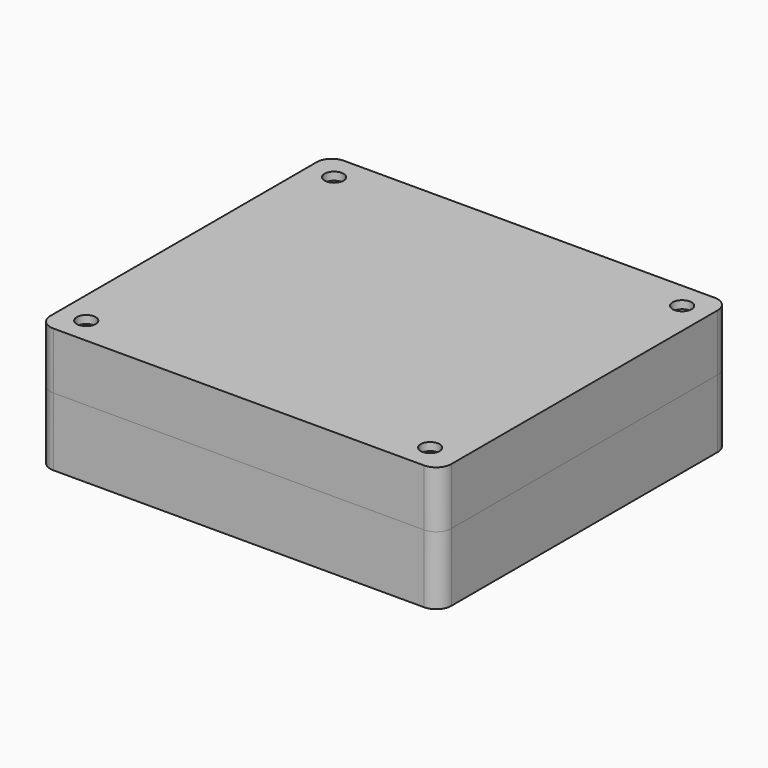
from build123d import *

# Parameters (mm, degrees)
SKETCH008_R      = 2.5
EXTRUDE008_DEPTH = 3
EXTRUDE007_DEPTH = 2
SKETCH006_R      = 1.5
EXTRUDE006_DEPTH = 3
SKETCH005_R      = 1.3
EXTRUDE005_DEPTH = 14
SKETCH009_W      = 3
SKETCH009_H      = 83.1851663703
EXTRUDE009_DEPTH = 2
SKETCH003_R      = 1.3
EXTRUDE003_DEPTH = 9
SKETCH002_W      = 106
SKETCH002_H      = 96
SKETCH002_W_2    = 100
SKETCH002_H_2    = 90
EXTRUDE002_DEPTH = 6
SKETCH_W         = 100.0000508001
SKETCH_H         = 90.0000254001
SKETCH_R         = 1.7
SKETCH_R_2       = 4
SKETCH_W_2       = 55.8801117602
SKETCH_H_2       = 83.1851663703
EXTRUDE_DEPTH    = 2.5
SKETCH001_W      = 106
SKETCH001_H      = 96
EXTRUDE001_DEPTH = 12
FILLET_R         = 4
FILLET001_R      = 4
FILLET002_R      = 4
FILLET003_R      = 4
FILLET004_R      = 1
FILLET005_R      = 1
FILLET006_R      = 1
FILLET007_R      = 1
SKETCH004_W      = 55.8801117602
SKETCH004_H      = 83.1851663703
EXTRUDE004_DEPTH = 1.4
FILLET008_R      = 0.5
FILLET009_R      = 0.5
FILLET010_R      = 0.5


with BuildPart() as extrude008:
    # Sketch008 (on Fusion) → Extrude008 (new body)
    with BuildSketch(Plane.XY.offset(-65)):
        with Locations((4, 86)):
            Circle(SKETCH008_R)
        with Locations((96, 86)):
            Circle(SKETCH008_R)
        with Locations((4.1000762002, 4)):
            Circle(SKETCH008_R)
        with Locations((95, 4)):
            Circle(SKETCH008_R)
    extrude(amount=EXTRUDE008_DEPTH)


with BuildPart() as extrude008_1:
    # Extrude008 placement: moved
    add(extrude008.part.moved(Location((0, 0, 95.4))))


with BuildPart() as extrude007:
    # Sketch007 (on Fusion) → Extrude007 (new body)
    with BuildSketch(Plane.XY):
        with BuildLine():
            ThreePointArc((1, 93), (-1.8284271247, 91.8284271247), (-3, 89))
            Line((-3, 89), (-3, 1))
            ThreePointArc((-3, 1), (-1.8284271247, -1.8284271247), (1, -3))
            Line((1, -3), (99, -3))
            ThreePointArc((99, -3), (101.8284271247, -1.8284271247), (103, 1))
            Line((103, 89), (103, 1))
            ThreePointArc((103, 89), (101.8284271247, 91.8284271247), (99, 93))
            Line((1, 93), (99, 93))
        make_face()
    extrude(amount=EXTRUDE007_DEPTH)


with BuildPart() as extrude007_1:
    # Extrude007 placement: moved
    add(extrude007.part.moved(Location((0, 0, 95.5))))


with BuildPart() as extrude006:
    # Sketch006 (on Extrude) → Extrude006 (new body)
    with BuildSketch(Plane.XY.offset(82.4)):
        with BuildLine():
            Line((0.5, 82.0000644515), (3.977293, 82.0000644515))
            ThreePointArc((3.977293, 82.0000644515), (6.8224382829, 83.1655966873), (7.9999958153, 86.005786))
            Line((7.9999958153, 89.5), (7.9999958153, 86.005786))
            Line((0.5, 89.5), (7.9999958153, 89.5))
            Line((0.5, 89.5), (0.5, 82.0000644515))
        make_face()
        with Locations((4, 86)):
            Circle(SKETCH006_R, mode=Mode.SUBTRACT)
        with BuildLine():
            ThreePointArc((92.5, 86), (93.5938415472, 83.4582680118), (96.191658, 82.505251481))
            Line((96.191658, 82.505251481), (99.5, 82.505251481))
            Line((99.5, 89.5), (99.5, 82.505251481))
            Line((92.5, 89.5), (99.5, 89.5))
            Line((92.5, 89.5), (92.5, 86))
        make_face()
        with Locations((96, 86)):
            Circle(SKETCH006_R, mode=Mode.SUBTRACT)
        with BuildLine():
            ThreePointArc((95.140865, 6.9966910171), (92.6566662698, 5.8731756535), (92.1079388536, 3.202515))
            Line((92.1079388536, 3.202515), (92.1079388536, 0.5))
            Line((92.1079388536, 0.5), (99.5, 0.5))
            Line((99.5, 6.9966910171), (99.5, 0.5))
            Line((99.5, 6.9966910171), (95.140865, 6.9966910171))
        make_face()
        with Locations((95, 4)):
            Circle(SKETCH006_R, mode=Mode.SUBTRACT)
        with BuildLine():
            ThreePointArc((8.1000762002, 4), (6.5895528836, 7.130895374), (3.1988232788, 7.8971455159))
            Line((0.5, 7.8971455159), (3.1988232788, 7.8971455159))
            Line((0.5, 7.8971455159), (0.5, 0.5))
            Line((0.5, 0.5), (8.1000762002, 0.5))
            Line((8.1000762002, 4), (8.1000762002, 0.5))
        make_face()
        with Locations((4.1000762002, 4)):
            Circle(SKETCH006_R, mode=Mode.SUBTRACT)
    extrude(amount=EXTRUDE006_DEPTH)


with BuildPart() as extrude006_1:
    # Extrude006 placement: moved
    add(extrude006.part.moved(Location((0, 0, -2.5))))


with BuildPart() as panel_cup:
    # Sketch005 (on Fillet) → Extrude005 (new body)
    with BuildSketch(Plane.XY):
        with BuildLine():
            ThreePointArc((1, 93), (-1.8284271247, 91.8284271247), (-3, 89))
            Line((-3, 89), (-3, 1))
            ThreePointArc((-3, 1), (-1.8284271247, -1.8284271247), (1, -3))
            Line((99, -3), (1, -3))
            ThreePointArc((99, -3), (101.8284271247, -1.8284271247), (103, 1))
            Line((103, 89), (103, 1))
            ThreePointArc((103, 89), (101.8284271247, 91.8284271247), (99, 93))
            Line((1, 93), (99, 93))
        make_face()
        with Locations((4.0000001837, 86)):
            Circle(SKETCH005_R, mode=Mode.SUBTRACT)
        with Locations((96, 86)):
            Circle(SKETCH005_R, mode=Mode.SUBTRACT)
        with Locations((4.1000762002, 4)):
            Circle(SKETCH005_R, mode=Mode.SUBTRACT)
        with Locations((95, 4)):
            Circle(SKETCH005_R, mode=Mode.SUBTRACT)
        with BuildLine():
            Line((0, 82.0000644515), (0, 7.8971455159))
            Line((0, 7.8971455159), (3.1988232788, 7.8971455159))
            ThreePointArc((8.1000762002, 4), (6.5895528836, 7.130895374), (3.1988232788, 7.8971455159))
            Line((8.1000762002, 4), (8.1000762002, 0))
            Line((8.1000762002, 0), (92.1079388536, 0))
            Line((92.1079388536, 3.202515), (92.1079388536, 0))
            ThreePointArc((95.140865, 6.9966910171), (92.6566662698, 5.8731756535), (92.1079388536, 3.202515))
            Line((100, 6.9966910171), (95.140865, 6.9966910171))
            Line((100, 82.505251481), (100, 6.9966910171))
            Line((100, 82.505251481), (96.191658, 82.505251481))
            ThreePointArc((92.5, 86), (93.5938415472, 83.4582680118), (96.191658, 82.505251481))
            Line((92.5, 90), (92.5, 86))
            Line((7.9999958153, 90), (92.5, 90))
            Line((7.9999958153, 90), (7.999996, 86.005786))
            ThreePointArc((3.977293, 82.0000644515), (6.8224384023, 83.1655966218), (7.999996, 86.005786))
            Line((3.977293, 82.0000644515), (0, 82.0000644515))
        make_face(mode=Mode.SUBTRACT)
    extrude(amount=EXTRUDE005_DEPTH)


with BuildPart() as panel_cup_1:
    # Extrude005 placement: moved
    add(panel_cup.part.moved(Location((0, 0, 82.4))))

    # Fusion003: union Extrude006
    add(extrude006_1.part)

    # Fusion004: union Extrude007
    add(extrude007_1.part)


with BuildPart() as panel_cup_2:
    # Fusion004 placement: moved
    add(panel_cup_1.part.moved(Location((0, 0, -65))))

    # Cut001: cut Extrude008
    add(extrude008_1.part, mode=Mode.SUBTRACT)


with BuildPart() as panel_cup_3:
    # Cut001 placement: moved
    add(panel_cup_2.part.moved(Location((0, 0, 0.5))))


with BuildPart() as extrude009:
    # Sketch009 → Extrude009 (new body)
    with BuildSketch(Plane.XY):
        with Locations((36.3198882398, 45.2074168148)):
            Rectangle(SKETCH009_W, SKETCH009_H)
    extrude(amount=EXTRUDE009_DEPTH)


with BuildPart() as extrude009_1:
    # Extrude009 placement: moved
    add(extrude009.part.moved(Location((-2, 0, 1.4))))


with BuildPart() as extrude003:
    # Sketch003 (on Face57 of Fillet007) → Extrude003 (new body)
    with BuildSketch(Plane(origin=(0, 0, 0), x_dir=(1, 0, 0), z_dir=(0, 0, -1))):
        with Locations((4.1000762002, -4)):
            Circle(SKETCH003_R)
        with Locations((4, -86)):
            Circle(SKETCH003_R)
        with Locations((96, -86)):
            Circle(SKETCH003_R)
        with Locations((95, -4)):
            Circle(SKETCH003_R)
    extrude(amount=EXTRUDE003_DEPTH)


with BuildPart() as extrude003_1:
    # Extrude003 placement: moved
    add(extrude003.part.moved(Location((0, 0, 14))))


with BuildPart() as extrude002:
    # Sketch002 (on Face5 of Fusion) → Extrude002 (new body)
    with BuildSketch(Plane.XY.offset(12)):
        with Locations((50, 45)):
            Rectangle(SKETCH002_W, SKETCH002_H)
        with Locations((50, 45)):
            Rectangle(SKETCH002_W_2, SKETCH002_H_2, mode=Mode.SUBTRACT)
    extrude(amount=EXTRUDE002_DEPTH)


with BuildPart() as extrude_body:
    # Sketch → Extrude (new body)
    with BuildSketch(Plane.XY):
        with Locations((50.0000254001, 45.0000127)):
            Rectangle(SKETCH_W, SKETCH_H)
        with Locations((4.1000762002, 4)):
            Circle(SKETCH_R, mode=Mode.SUBTRACT)
        with Locations((95, 4)):
            Circle(SKETCH_R, mode=Mode.SUBTRACT)
        with Locations((4, 86)):
            Circle(SKETCH_R, mode=Mode.SUBTRACT)
        with Locations((96, 86)):
            Circle(SKETCH_R, mode=Mode.SUBTRACT)
        with Locations((9.98984, 57.203454)):
            Circle(SKETCH_R_2, mode=Mode.SUBTRACT)
        with Locations((23.990348, 42.501905)):
            Circle(SKETCH_R_2, mode=Mode.SUBTRACT)
        with Locations((10.0889, 27.901955)):
            Circle(SKETCH_R_2, mode=Mode.SUBTRACT)
        with Locations((62.7599441199, 45.2074168148)):
            Rectangle(SKETCH_W_2, SKETCH_H_2, mode=Mode.SUBTRACT)
    extrude(amount=EXTRUDE_DEPTH)


with BuildPart() as cut:
    # Sketch001 (on Extrude) → Extrude001 (new body)
    with BuildSketch(Plane.XY):
        with Locations((50, 45)):
            Rectangle(SKETCH001_W, SKETCH001_H)
        with BuildLine():
            ThreePointArc((8.1000762002, 4), (6.5895528836, 7.130895374), (3.1988232788, 7.8971455159))
            Line((0, 7.8971455159), (3.1988232788, 7.8971455159))
            Line((0, 82.0000644515), (0, 7.8971455159))
            Line((3.977293, 82.0000644515), (0, 82.0000644515))
            ThreePointArc((3.977293, 82.0000644515), (6.8224382829, 83.1655966873), (7.9999958153, 86.005786))
            Line((7.9999958153, 86.005786), (7.9999958153, 90.0000254001))
            Line((7.9999958153, 90.0000254001), (92.5, 90.0000254001))
            Line((92.5, 86), (92.5, 90.0000254001))
            ThreePointArc((92.5, 86), (93.5938415472, 83.4582680118), (96.191658, 82.505251481))
            Line((96.191658, 82.505251481), (100.0000508001, 82.505251481))
            Line((100.0000508001, 82.505251481), (100.0000508001, 6.9966910171))
            Line((95.140865, 6.9966910171), (100.0000508001, 6.9966910171))
            ThreePointArc((95.140865, 6.9966910171), (92.6566662698, 5.8731756535), (92.1079388536, 3.202515))
            Line((92.1079388536, 3.202515), (92.1079388536, 0))
            Line((8.1000762002, 0), (92.1079388536, 0))
            Line((8.1000762002, 0), (8.1000762002, 4))
        make_face(mode=Mode.SUBTRACT)
    extrude(amount=EXTRUDE001_DEPTH)

    # Fusion: union Extrude body
    add(extrude_body.part)

    # Fusion001: union Extrude002
    add(extrude002.part)

    # Fillet
    fillet_edges = [cut.edges().sort_by_distance(p)[0] for p in [
        (-3, -3, 15),
        (-3, -3, 6),
    ]]
    fillet(fillet_edges, radius=FILLET_R)

    # Fillet001
    fillet001_edges = [cut.edges().sort_by_distance(p)[0] for p in [
        (103, -3, 15),
        (103, -3, 6),
    ]]
    fillet(fillet001_edges, radius=FILLET001_R)

    # Fillet002
    fillet002_edges = [cut.edges().sort_by_distance(p)[0] for p in [
        (103, 93, 15),
        (103, 93, 6),
    ]]
    fillet(fillet002_edges, radius=FILLET002_R)

    # Fillet003
    fillet003_edges = [cut.edges().sort_by_distance(p)[0] for p in [
        (-3, 93, 15),
        (-3, 93, 6),
    ]]
    fillet(fillet003_edges, radius=FILLET003_R)

    # Fillet004
    fillet004_edges = [cut.edges().sort_by_distance(p)[0] for p in [
        (100, 0, 15),
    ]]
    fillet(fillet004_edges, radius=FILLET004_R)

    # Fillet005
    fillet005_edges = [cut.edges().sort_by_distance(p)[0] for p in [
        (0, 0, 15),
    ]]
    fillet(fillet005_edges, radius=FILLET005_R)

    # Fillet006
    fillet006_edges = [cut.edges().sort_by_distance(p)[0] for p in [
        (0, 90, 15),
    ]]
    fillet(fillet006_edges, radius=FILLET006_R)

    # Fillet007
    fillet007_edges = [cut.edges().sort_by_distance(p)[0] for p in [
        (100, 90, 15),
    ]]
    fillet(fillet007_edges, radius=FILLET007_R)

    # Cut: cut Extrude003
    add(extrude003_1.part, mode=Mode.SUBTRACT)


with BuildPart() as panel_top:
    # Sketch004 (on Face65 of Cut) → Extrude004 (new body)
    with BuildSketch(Plane(origin=(0, 0, 0), x_dir=(1, 0, 0), z_dir=(0, 0, -1))):
        with Locations((62.7599441199, -45.2074168148)):
            Rectangle(SKETCH004_W, SKETCH004_H)
        with BuildLine():
            Line((36.8703232398, -10.6148336297), (85.953293, -10.6148336297))
            ThreePointArc((88.2, -12.8615406297), (87.541954755, -11.2728788746), (85.953293, -10.6148336297))
            Line((88.2, -12.8615406297), (88.2, -82.392036))
            ThreePointArc((85.492036, -85.1), (87.4068557076, -84.3068557076), (88.2, -82.392036))
            Line((38.1351242398, -85.1), (85.492036, -85.1))
            ThreePointArc((35.8198882398, -82.784764), (36.4980051641, -84.4218830756), (38.1351242398, -85.1))
            Line((35.8198882398, -11.6652686297), (35.8198882398, -82.784764))
            ThreePointArc((36.8703232398, -10.6148336297), (36.1275535281, -10.922498918), (35.8198882398, -11.6652686297))
        make_face(mode=Mode.SUBTRACT)
    extrude(amount=EXTRUDE004_DEPTH)


with BuildPart() as panel_top_1:
    # Extrude004 placement: moved
    add(panel_top.part.moved(Location((0, 0, 1.4))))

    # Fusion002: union Cut
    add(cut.part)

    # Fillet008
    fillet008_edges = [panel_top_1.edges().sort_by_distance(p)[0] for p in [
        (6.0889, 27.901955, 0),
        (19.990348, 42.501905, 0),
        (5.98984, 57.203454, 0),
    ]]
    fillet(fillet008_edges, radius=FILLET008_R)

    # Fillet009
    fillet009_edges = [panel_top_1.edges().sort_by_distance(p)[0] for p in [
        (36.127554, 10.922499, 0),
        (61.411808, 10.614834, 0),
        (87.541955, 11.272879, 0),
        (88.2, 47.626788, 0),
        (87.406856, 84.306856, 0),
        (61.81358, 85.1, 0),
        (36.498005, 84.421883, 0),
        (35.819888, 47.225016, 0),
    ]]
    fillet(fillet009_edges, radius=FILLET009_R)

    # Fillet010
    fillet010_edges = [panel_top_1.edges().sort_by_distance(p)[0] for p in [
        (6.0889, 27.901955, 2.5),
        (19.990348, 42.501905, 2.5),
    ]]
    fillet(fillet010_edges, radius=FILLET010_R)

    # Cut002: cut Extrude009
    add(extrude009_1.part, mode=Mode.SUBTRACT)


solid = Compound([panel_cup_3.part, panel_top_1.part])
